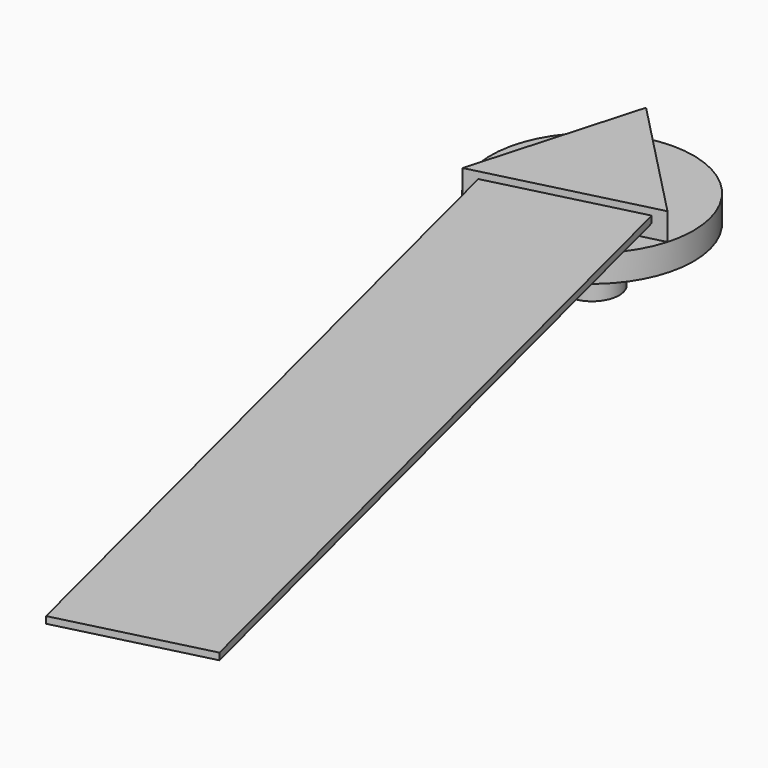
from build123d import *

# Parameters (mm, degrees)
F0_R     = 37.5
F0_R_2   = 10
F1_DEPTH = 10
F3_DEPTH = 10
F4_W     = 54.9519052838
F4_H     = 2.5
F5_DEPTH = 300
F6_DEPTH = 20


with BuildPart() as f1:
    # F0 (on Top) → F1 (new body)
    with BuildSketch(Plane.XY):
        with Locations((-117.0892864466, -13.0537990481)):
            Circle(F0_R)
        with Locations((-117.0892864466, -13.0537990481)):
            Circle(F0_R_2, mode=Mode.SUBTRACT)
        with Locations((-117.0892864466, -13.0537990481)):
            Circle(F0_R_2)
    extrude(amount=F1_DEPTH)

    # F2 (on face) → F3 (join)
    with BuildSketch(Plane.XY.offset(10)):
        Polygon((-144.0126514019, -39.1571018943), (-81.0214805814, -23.3184656317), (-126.2337273564, 23.3141703817), align=None)
    extrude(amount=F3_DEPTH)

    # F4 (on face) → F5 (join)
    with BuildSketch(Plane(origin=(0.6967599266, -2.7710544537, 0), x_dir=(0.9698125181, 0.2438517576, 0), z_dir=(0.2438517576, -0.9698125181, 0))):
        with Locations((-116.7378475757, 16.25)):
            Rectangle(F4_W, F4_H)
    extrude(amount=F5_DEPTH)

    # F0 (on Top) → F6 (join)
    with BuildSketch(Plane.XY):
        with Locations((-117.0892864466, -13.0537990481)):
            Circle(F0_R_2)
    extrude(amount=-F6_DEPTH)


solid = f1.part
